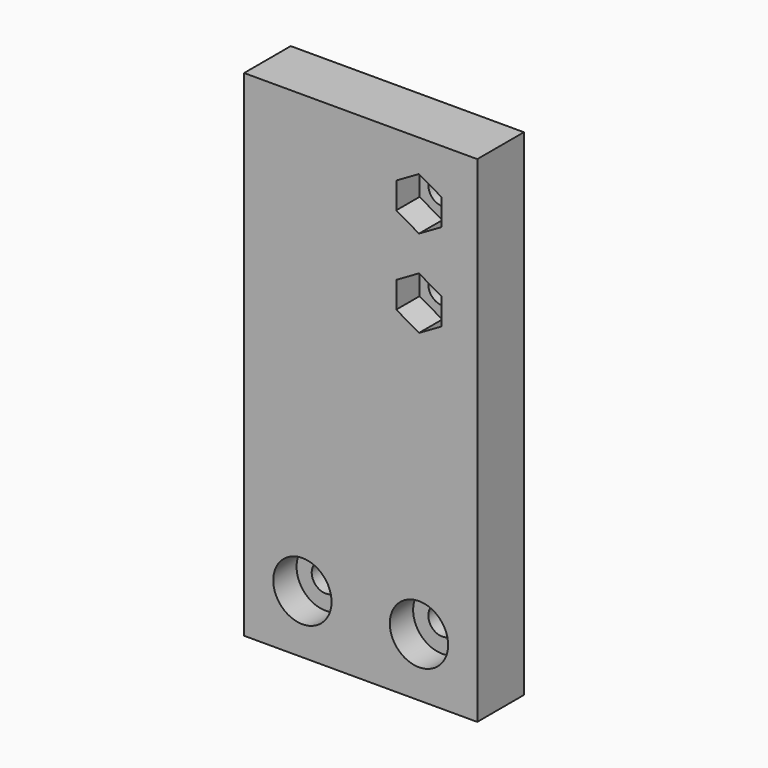
from build123d import *

# Parameters (mm, degrees)
SKETCH_W        = 40
SKETCH_H        = 85
PAD_DEPTH       = 10
SKETCH001_R     = 2.4
POCKET_DEPTH    = 10
SKETCH002_R     = 5
POCKET001_DEPTH = 5


with BuildPart() as part:
    # Sketch → Pad (new body)
    with BuildSketch(Plane.XZ):
        Rectangle(SKETCH_W, SKETCH_H)
    extrude(amount=PAD_DEPTH)

    # Sketch001 (on Face6 of Pad) → Pocket (cut)
    with BuildSketch(Plane.XZ.offset(10)):
        with Locations((-10, -32.5)):
            Circle(SKETCH001_R)
        with Locations((10, -32.5)):
            Circle(SKETCH001_R)
        with Locations((10, 32.5)):
            Circle(SKETCH001_R)
        with Locations((10, 17.5)):
            Circle(SKETCH001_R)
    extrude(amount=-POCKET_DEPTH, mode=Mode.SUBTRACT)

    # Sketch002 (on Face5 of Pocket) → Pocket001 (cut)
    with BuildSketch(Plane.XZ.offset(10)):
        with Locations((-10, -32.5)):
            Circle(SKETCH002_R)
        with Locations((10, -32.5)):
            Circle(SKETCH002_R)
        Polygon((13.897114, 30.25), (13.897114, 34.75), (10, 37), (6.102886, 34.75), (6.102886, 30.25), (10, 28), align=None)
        Polygon((13.897114, 15.25), (13.897114, 19.75), (10, 22), (6.102886, 19.75), (6.102886, 15.25), (10, 13), align=None)
    extrude(amount=-POCKET001_DEPTH, mode=Mode.SUBTRACT)


solid = part.part
